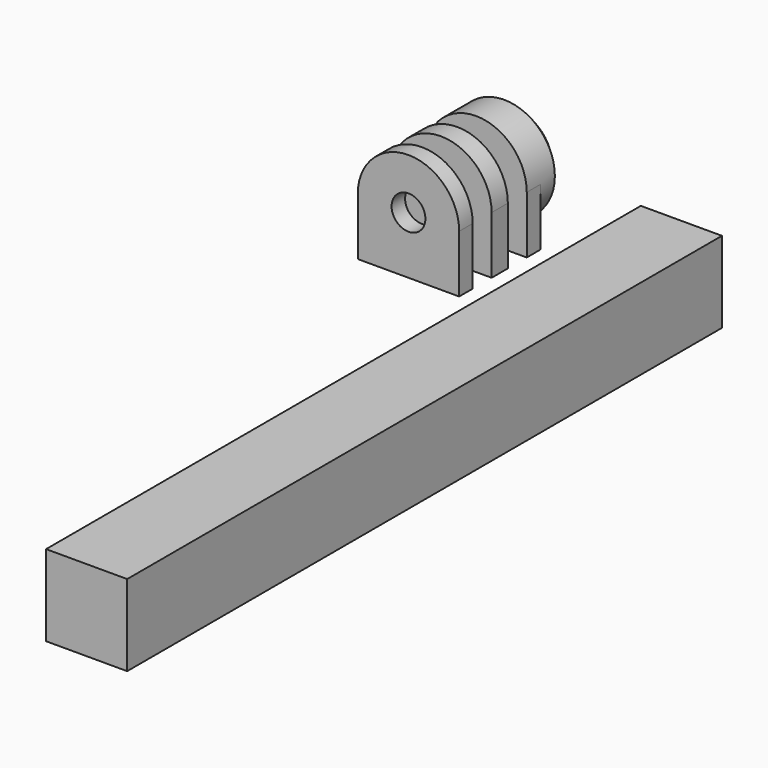
from build123d import *

# Parameters (mm, degrees)
F0_R     = 2.5
F1_DEPTH = 1.5
F2_START = 5
F2_DEPTH = 2.5
F3_START = -5
F3_DEPTH = 2.5
F4_START = -7.5
F4_DEPTH = 4.7
F5_SIZE  = 2
F6_W     = 12
F6_H     = 110
F7_DEPTH = 12


with BuildPart() as f1:
    # F0 (on Front) → F1 (new body, symmetric)
    with BuildSketch(Plane.XZ):
        with BuildLine():
            Line((7.5, -8.5), (7.5, 0))
            ThreePointArc((7.5, 0), (0, -7.5), (-7.5, 0))
            Line((-7.5, 0), (-7.5, -8.5))
            Line((-7.5, -8.5), (7.5, -8.5))
        make_face()
        with BuildLine():
            ThreePointArc((-7.5, 0), (0, -7.5), (7.5, 0))
            ThreePointArc((7.5, 0), (0, 7.5), (-7.5, 0))
        make_face()
        Polygon((2.1975, 3.8061816496), (4.395, 0), (2.1975, -3.8061816496), (-2.1975, -3.8061816496), (-4.395, 0), (-2.1975, 3.8061816496), align=None, mode=Mode.SUBTRACT)
        Polygon((2.1975, -3.8061816496), (4.395, 0), (2.1975, 3.8061816496), (-2.1975, 3.8061816496), (-4.395, 0), (-2.1975, -3.8061816496), align=None)
        Circle(F0_R, mode=Mode.SUBTRACT)
    extrude(amount=F1_DEPTH, both=True)


with BuildPart() as f2:
    # F0 (on Front) → F2 (new body)
    with BuildSketch(Plane.XZ.offset(F2_START)):
        with BuildLine():
            Line((7.5, -8.5), (7.5, 0))
            ThreePointArc((7.5, 0), (0, -7.5), (-7.5, 0))
            Line((-7.5, 0), (-7.5, -8.5))
            Line((-7.5, -8.5), (7.5, -8.5))
        make_face()
        with BuildLine():
            ThreePointArc((-7.5, 0), (0, -7.5), (7.5, 0))
            ThreePointArc((7.5, 0), (0, 7.5), (-7.5, 0))
        make_face()
        Polygon((2.1975, 3.8061816496), (4.395, 0), (2.1975, -3.8061816496), (-2.1975, -3.8061816496), (-4.395, 0), (-2.1975, 3.8061816496), align=None, mode=Mode.SUBTRACT)
        Polygon((2.1975, -3.8061816496), (4.395, 0), (2.1975, 3.8061816496), (-2.1975, 3.8061816496), (-4.395, 0), (-2.1975, -3.8061816496), align=None)
        Circle(F0_R, mode=Mode.SUBTRACT)
    extrude(amount=F2_DEPTH)


with BuildPart() as f3:
    # F0 (on Front) → F3 (new body)
    with BuildSketch(Plane.XZ.offset(F3_START)):
        with BuildLine():
            ThreePointArc((-7.5, 0), (0, -7.5), (7.5, 0))
            ThreePointArc((7.5, 0), (0, 7.5), (-7.5, 0))
        make_face()
        Polygon((2.1975, 3.8061816496), (4.395, 0), (2.1975, -3.8061816496), (-2.1975, -3.8061816496), (-4.395, 0), (-2.1975, 3.8061816496), align=None, mode=Mode.SUBTRACT)
        with BuildLine():
            Line((7.5, -8.5), (7.5, 0))
            ThreePointArc((7.5, 0), (0, -7.5), (-7.5, 0))
            Line((-7.5, 0), (-7.5, -8.5))
            Line((-7.5, -8.5), (7.5, -8.5))
        make_face()
        Polygon((2.1975, -3.8061816496), (4.395, 0), (2.1975, 3.8061816496), (-2.1975, 3.8061816496), (-4.395, 0), (-2.1975, -3.8061816496), align=None)
        Circle(F0_R, mode=Mode.SUBTRACT)
    extrude(amount=-F3_DEPTH)

    # F0 (on Front) → F4 (join)
    with BuildSketch(Plane.XZ.offset(F4_START)):
        with BuildLine():
            ThreePointArc((-7.5, 0), (0, -7.5), (7.5, 0))
            ThreePointArc((7.5, 0), (0, 7.5), (-7.5, 0))
        make_face()
        Polygon((2.1975, 3.8061816496), (4.395, 0), (2.1975, -3.8061816496), (-2.1975, -3.8061816496), (-4.395, 0), (-2.1975, 3.8061816496), align=None, mode=Mode.SUBTRACT)
    extrude(amount=-F4_DEPTH)

    # F5
    f5_edges = [f3.edges().sort_by_distance(p)[0] for p in [
        (-7.5, 12.2, 0),
    ]]
    chamfer(f5_edges, length=F5_SIZE)


with BuildPart() as f7:
    # F6 (on face) → F7 (new body)
    with BuildSketch(Plane(origin=(0, 0, -8.5), x_dir=(1, 0, 0), z_dir=(0, 0, -1))):
        with Locations((30.112095125, 49.667571038)):
            Rectangle(F6_W, F6_H)
    extrude(amount=-F7_DEPTH)


solid = Compound([f1.part, f2.part, f3.part, f7.part])
